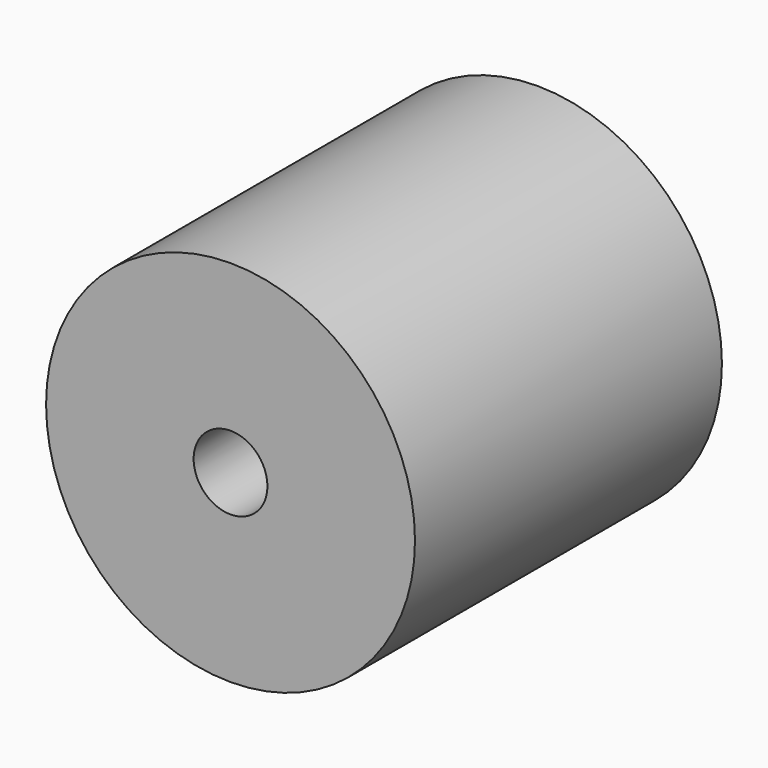
from build123d import *

# Parameters (mm, degrees)
SKETCH048_R     = 12.5
PAD017_DEPTH    = 13
SKETCH049_R     = 2.5
POCKET028_DEPTH = 8
SKETCH050_R     = 2.5
POCKET027_DEPTH = 8


with BuildPart() as part:
    # Sketch048 → Pad017 (new body, symmetric)
    with BuildSketch(Plane.XZ):
        Circle(SKETCH048_R)
    extrude(amount=PAD017_DEPTH, both=True)

    # Sketch049 (on Face3 of Pad017) → Pocket028 (cut)
    with BuildSketch(Plane.XZ.offset(13)):
        Circle(SKETCH049_R)
    extrude(amount=-POCKET028_DEPTH, mode=Mode.SUBTRACT)

    # Sketch050 (on Face2 of Pocket028) → Pocket027 (cut)
    with BuildSketch(Plane(origin=(0, 13, 0), x_dir=(1, 0, 0), z_dir=(0, 1, 0))):
        Circle(SKETCH050_R)
    extrude(amount=-POCKET027_DEPTH, mode=Mode.SUBTRACT)


with BuildPart() as part_1:
    # Body011 placement: moved
    add(part.part.moved(Location((0, 17.75, 150))))


solid = part_1.part
